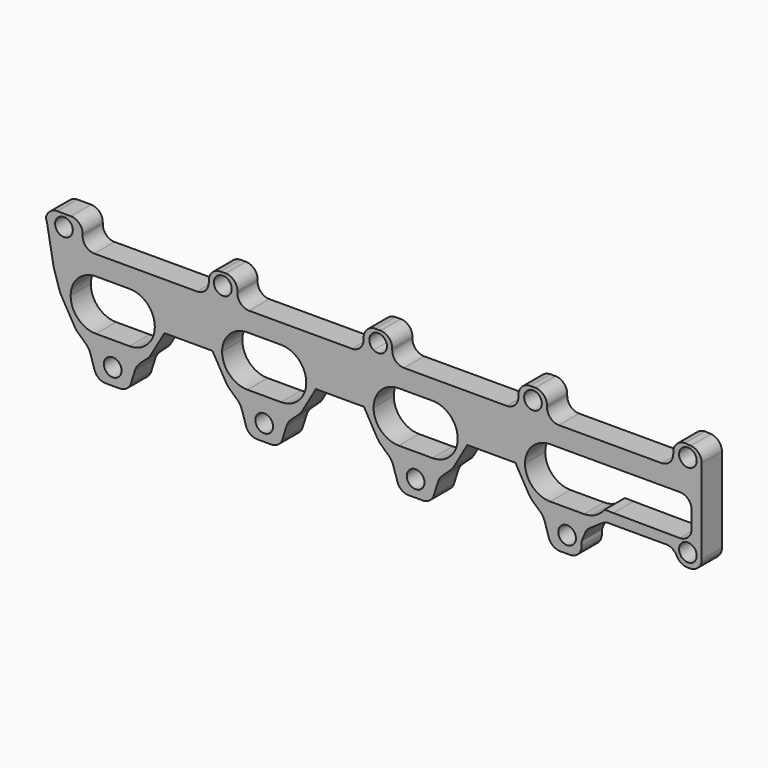
from build123d import *

# Parameters (mm, degrees)
F0_R     = 5.25
F0_R_2   = 5.254085
F0_R_3   = 5.311104
F1_DEPTH = 15


with BuildPart() as f1:
    # F0 (on Front) → F1 (new body)
    with BuildSketch(Plane.XZ):
        with BuildLine():
            Line((195, 23.072333), (195, 73.480297))
            ThreePointArc((195, 73.480297), (193.122359, 78.251192), (188.496733, 80.46265))
            Line((188.496733, 80.46265), (185.082949, 80.705511))
            ThreePointArc((185.082949, 80.705511), (180.133201, 78.655259), (178.082949, 73.705511))
            Line((178.082949, 73.705511), (178.082949, 72.705511))
            ThreePointArc((178.082949, 72.705511), (176.032696, 67.755764), (171.082949, 65.705511))
            Line((171.082949, 65.705511), (110.082949, 65.705511))
            ThreePointArc((110.082949, 65.705511), (105.133201, 67.755764), (103.082949, 72.705511))
            Line((103.082949, 72.705511), (103.082949, 73.705511))
            ThreePointArc((103.082949, 73.705511), (101.032696, 78.655259), (96.082949, 80.705511))
            Line((96.082949, 80.705511), (93.082949, 80.705511))
            ThreePointArc((93.082949, 80.705511), (88.133201, 78.655259), (86.082949, 73.705511))
            Line((86.082949, 73.705511), (86.082949, 72.705511))
            ThreePointArc((86.082949, 72.705511), (84.032696, 67.755764), (79.082949, 65.705511))
            Line((79.082949, 65.705511), (18.082949, 65.705511))
            ThreePointArc((18.082949, 65.705511), (13.133201, 67.755764), (11.082949, 72.705511))
            Line((11.082949, 72.705511), (11.082949, 73.705511))
            ThreePointArc((11.082949, 73.705511), (9.032696, 78.655259), (4.082949, 80.705511))
            Line((4.082949, 80.705511), (1.082949, 80.705511))
            ThreePointArc((1.082949, 80.705511), (-3.866799, 78.655259), (-5.917051, 73.705511))
            Line((-5.917051, 73.705511), (-5.917051, 72.705511))
            ThreePointArc((-5.917051, 72.705511), (-7.967304, 67.755764), (-12.917051, 65.705511))
            Line((-12.917051, 65.705511), (-73.917051, 65.705511))
            ThreePointArc((-73.917051, 65.705511), (-78.866799, 67.755764), (-80.917051, 72.705511))
            Line((-80.917051, 72.705511), (-80.917051, 73.705511))
            ThreePointArc((-80.917051, 73.705511), (-82.967304, 78.655259), (-87.917051, 80.705511))
            Line((-87.917051, 80.705511), (-90.917051, 80.705511))
            ThreePointArc((-90.917051, 80.705511), (-95.866799, 78.655259), (-97.917051, 73.705511))
            Line((-97.917051, 73.705511), (-97.917051, 72.705511))
            ThreePointArc((-97.917051, 72.705511), (-99.967304, 67.755764), (-104.917051, 65.705511))
            Line((-104.917051, 65.705511), (-165.917051, 65.705511))
            ThreePointArc((-165.917051, 65.705511), (-170.866799, 67.755764), (-172.917051, 72.705511))
            Line((-172.917051, 72.705511), (-172.917051, 73.705511))
            ThreePointArc((-172.917051, 73.705511), (-174.967304, 78.655259), (-179.917051, 80.705511))
            Line((-179.917051, 80.705511), (-187.917051, 80.705511))
            ThreePointArc((-187.917051, 80.705511), (-191.62203, 79.64463), (-194.203996, 76.78355))
            ThreePointArc((-194.203996, 76.78355), (-194.606342, 74.960742), (-194.128551, 73.156241))
            Line((-194.128551, 73.156241), (-190.179633, 51.218559))
            ThreePointArc((-190.179633, 51.218559), (-190.114418, 50.911785), (-190.030097, 50.609704))
            Line((-190.030097, 50.609704), (-186.59138, 39.632266))
            ThreePointArc((-186.59138, 39.632266), (-186.208592, 38.609697), (-185.716602, 37.634957))
            Line((-185.716602, 37.634957), (-177.611824, 23.546821))
            ThreePointArc((-177.611824, 23.546821), (-176.740115, 22.270978), (-175.682257, 21.144661))
            Line((-175.682257, 21.144661), (-171.066362, 16.935058))
            ThreePointArc((-171.066362, 16.935058), (-169.380238, 14.933988), (-168.270966, 12.564006))
            Line((-168.270966, 12.564006), (-165.841167, 4.887599))
            ThreePointArc((-165.841167, 4.887599), (-163.303518, 1.352575), (-159.167506, 0))
            Line((-159.167506, 0), (-155, 0))
            Line((-155, 0), (-150.832494, 0))
            ThreePointArc((-150.832494, 0), (-146.696482, 1.352575), (-144.158833, 4.887599))
            Line((-144.158833, 4.887599), (-141.729034, 12.564006))
            ThreePointArc((-141.729034, 12.564006), (-140.619762, 14.933988), (-138.933638, 16.935058))
            Line((-138.933638, 16.935058), (-134.317743, 21.144661))
            ThreePointArc((-134.317743, 21.144661), (-133.259885, 22.270978), (-132.388176, 23.546821))
            Line((-132.388176, 23.546821), (-124.283398, 37.634957))
            Line((-124.283398, 37.634957), (-95.716602, 37.634957))
            Line((-95.716602, 37.634957), (-87.611824, 23.546821))
            ThreePointArc((-87.611824, 23.546821), (-86.740115, 22.270978), (-85.682257, 21.144661))
            Line((-85.682257, 21.144661), (-81.066362, 16.935058))
            ThreePointArc((-81.066362, 16.935058), (-79.380238, 14.933988), (-78.270966, 12.564006))
            Line((-78.270966, 12.564006), (-75.841167, 4.887599))
            ThreePointArc((-75.841167, 4.887599), (-73.303518, 1.352575), (-69.167506, 0))
            Line((-69.167506, 0), (-60.832494, 0))
            ThreePointArc((-60.832494, 0), (-56.696482, 1.352575), (-54.158833, 4.887599))
            Line((-54.158833, 4.887599), (-51.729034, 12.564006))
            ThreePointArc((-51.729034, 12.564006), (-50.619762, 14.933988), (-48.933638, 16.935058))
            Line((-48.933638, 16.935058), (-44.317743, 21.144661))
            ThreePointArc((-44.317743, 21.144661), (-43.259885, 22.270978), (-42.388176, 23.546821))
            Line((-42.388176, 23.546821), (-34.283398, 37.634957))
            Line((-34.283398, 37.634957), (-5.716602, 37.634957))
            Line((-5.716602, 37.634957), (0, 27.69807))
            Line((0, 27.69807), (2.388176, 23.546821))
            ThreePointArc((2.388176, 23.546821), (3.259885, 22.270978), (4.317743, 21.144661))
            Line((4.317743, 21.144661), (8.933638, 16.935058))
            ThreePointArc((8.933638, 16.935058), (10.619762, 14.933988), (11.729034, 12.564006))
            Line((11.729034, 12.564006), (14.158833, 4.887599))
            ThreePointArc((14.158833, 4.887599), (16.696482, 1.352575), (20.832494, 0))
            Line((20.832494, 0), (29.167506, 0))
            ThreePointArc((29.167506, 0), (33.303518, 1.352575), (35.841167, 4.887599))
            Line((35.841167, 4.887599), (38.270966, 12.564006))
            ThreePointArc((38.270966, 12.564006), (39.380238, 14.933988), (41.066362, 16.935058))
            Line((41.066362, 16.935058), (45.682257, 21.144661))
            ThreePointArc((45.682257, 21.144661), (46.740115, 22.270978), (47.611824, 23.546821))
            Line((47.611824, 23.546821), (55.716602, 37.634957))
            Line((55.716602, 37.634957), (84.283398, 37.634957))
            Line((84.283398, 37.634957), (92.388176, 23.546821))
            ThreePointArc((92.388176, 23.546821), (93.259885, 22.270978), (94.317743, 21.144661))
            Line((94.317743, 21.144661), (98.933638, 16.935058))
            ThreePointArc((98.933638, 16.935058), (100.619762, 14.933988), (101.729034, 12.564006))
            Line((101.729034, 12.564006), (104.158833, 4.887599))
            ThreePointArc((104.158833, 4.887599), (106.696482, 1.352575), (110.832494, 0))
            Line((110.832494, 0), (116.678365, 0))
            ThreePointArc((116.678365, 0), (121.628113, 2.050253), (123.678365, 7))
            Line((123.678365, 7), (123.678365, 9.434213))
            Line((123.678365, 9.434213), (125.800882, 14.62259))
            ThreePointArc((125.800882, 14.62259), (126.842165, 16.38046), (128.346681, 17.762781))
            Line((128.346681, 17.762781), (135.855722, 22.862975))
            ThreePointArc((135.855722, 22.862975), (137.704573, 23.750323), (139.732566, 24.055079))
            Line((139.732566, 24.055079), (173.859254, 24.055079))
            ThreePointArc((173.859254, 24.055079), (177.424201, 23.079292), (179.995255, 20.423979))
            Line((179.995255, 20.423979), (180.390863, 19.703433))
            ThreePointArc((180.390863, 19.703433), (182.961917, 17.048119), (186.526864, 16.072333))
            Line((186.526864, 16.072333), (188, 16.072333))
            ThreePointArc((188, 16.072333), (192.949747, 18.122585), (195, 23.072333))
        make_face()
        with Locations((-155, 9.734498)):
            Circle(F0_R, mode=Mode.SUBTRACT)
        with Locations((-65, 9.734498)):
            Circle(F0_R, mode=Mode.SUBTRACT)
        with BuildLine():
            ThreePointArc((-180, 39.055079), (-175.606602, 49.66168), (-165, 54.055079))
            Line((-165, 54.055079), (-145, 54.055079))
            ThreePointArc((-145, 54.055079), (-134.393398, 49.66168), (-130, 39.055079))
            ThreePointArc((-130, 39.055079), (-134.393398, 28.448477), (-145, 24.055079))
            Line((-145, 24.055079), (-165, 24.055079))
            ThreePointArc((-165, 24.055079), (-175.606602, 28.448477), (-180, 39.055079))
        make_face(mode=Mode.SUBTRACT)
        with BuildLine():
            ThreePointArc((-90, 39.055079), (-85.606602, 49.66168), (-75, 54.055079))
            Line((-75, 54.055079), (-55, 54.055079))
            ThreePointArc((-55, 54.055079), (-44.393398, 49.66168), (-40, 39.055079))
            ThreePointArc((-40, 39.055079), (-44.393398, 28.448477), (-55, 24.055079))
            Line((-55, 24.055079), (-75, 24.055079))
            ThreePointArc((-75, 24.055079), (-85.606602, 28.448477), (-90, 39.055079))
        make_face(mode=Mode.SUBTRACT)
        with Locations((25, 9.734498)):
            Circle(F0_R, mode=Mode.SUBTRACT)
        with Locations((115, 9.734498)):
            Circle(F0_R, mode=Mode.SUBTRACT)
        with BuildLine():
            ThreePointArc((15, 24.055079), (4.393398, 28.448477), (0, 39.055079))
            ThreePointArc((0, 39.055079), (4.393398, 49.66168), (15, 54.055079))
            Line((15, 54.055079), (35, 54.055079))
            ThreePointArc((35, 54.055079), (45.606602, 49.66168), (50, 39.055079))
            ThreePointArc((50, 39.055079), (45.606602, 28.448477), (35, 24.055079))
            Line((35, 24.055079), (15, 24.055079))
        make_face(mode=Mode.SUBTRACT)
        with Locations((186.789841, 24.055079)):
            Circle(F0_R, mode=Mode.SUBTRACT)
        with BuildLine():
            ThreePointArc((182, 54.055079), (186.949747, 52.004826), (189, 47.055079))
            Line((189, 47.055079), (189, 37))
            ThreePointArc((189, 37), (187.63078, 32.841356), (184.058765, 30.309598))
            ThreePointArc((184.058765, 30.309598), (183.040957, 30.077832), (182, 30))
            Line((182, 30), (142.461179, 30.274627))
            Line((142.461179, 30.274627), (137.622884, 30.349159))
            ThreePointArc((137.622884, 30.349159), (137.267697, 30.269764), (136.987128, 30.037941))
            ThreePointArc((136.987128, 30.037941), (131.698617, 25.633881), (125, 24.055079))
            Line((125, 24.055079), (105, 24.055079))
            ThreePointArc((105, 24.055079), (94.393398, 28.448477), (90, 39.055079))
            ThreePointArc((90, 39.055079), (94.393398, 49.66168), (105, 54.055079))
            Line((105, 54.055079), (125, 54.055079))
            Line((125, 54.055079), (182, 54.055079))
        make_face(mode=Mode.SUBTRACT)
        with Locations((-183.994836, 73.705511)):
            Circle(F0_R_2, mode=Mode.SUBTRACT)
        with Locations((-89.581637, 73.705511)):
            Circle(F0_R_3, mode=Mode.SUBTRACT)
        with BuildLine():
            ThreePointArc((7.963389, 73.705511), (5.293816, 69.133433), (0, 69.211068))
            ThreePointArc((0, 69.211068), (-2.536611, 73.705511), (0, 78.199955))
            ThreePointArc((0, 78.199955), (5.293816, 78.277589), (7.963389, 73.705511))
        make_face(mode=Mode.SUBTRACT)
        with Locations((94.714896, 73.705511)):
            Circle(F0_R, mode=Mode.SUBTRACT)
        with Locations((186.789841, 73.705511)):
            Circle(F0_R, mode=Mode.SUBTRACT)
    extrude(amount=F1_DEPTH)


solid = f1.part
